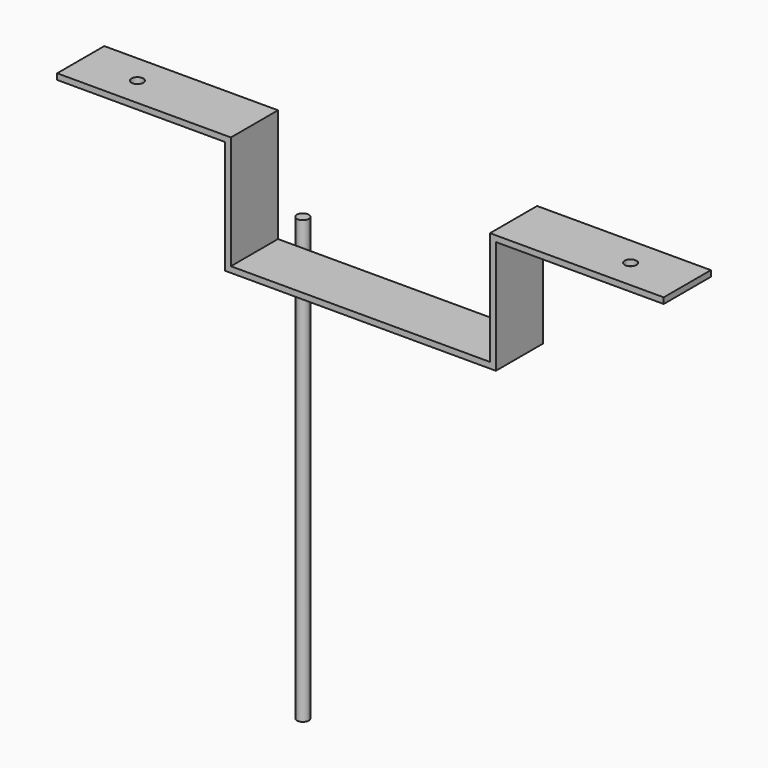
from build123d import *

# Parameters (mm, degrees)
F0_R     = 2
F1_DEPTH = 150
F3_DEPTH = 20
F4_R     = 2
F5_DEPTH = 25


with BuildPart() as f1:
    # F0 (on Top) → F1 (new body)
    with BuildSketch(Plane.XY):
        with Locations((-83, 41.1483086646)):
            Circle(F0_R)
    extrude(amount=-F1_DEPTH)


with BuildPart() as f1b:
    # F0 (on Top) → F1, piece 2 (new body)
    with BuildSketch(Plane.XY):
        with Locations((83, 41.1483086646)):
            Circle(F0_R)
    extrude(amount=-F1_DEPTH)


with BuildPart() as f3:
    # F2 (on Front) → F3 (new body)
    with BuildSketch(Plane.XZ):
        Polygon((31.4861148178, 54.5239873193), (88.4861148178, 54.5239873193), (88.4861148178, 56.5239873193), (29.4861148178, 56.5239873193), (29.4861148178, 18.0239873193), (-58.5138851822, 18.0239873193), (-58.5138851822, 56.5239873193), (-117.5138851822, 56.5239873193), (-117.5138851822, 54.5239873193), (-60.5138851822, 54.5239873193), (-60.5138851822, 16.0239873193), (31.4861148178, 16.0239873193), align=None)
    extrude(amount=F3_DEPTH)

    # F4 (on face) → F5 (cut)
    with BuildSketch(Plane.XY.offset(56.5239873193)):
        with Locations((69.2361148178, -10)):
            Circle(F4_R)
        with Locations((-98.2638851822, -10)):
            Circle(F4_R)
    extrude(amount=-F5_DEPTH, mode=Mode.SUBTRACT)


with BuildPart() as f7_1:
    # F7: copy of F1
    add(f1.part)


solid = Compound([f1.part, f3.part, f7_1.part])
